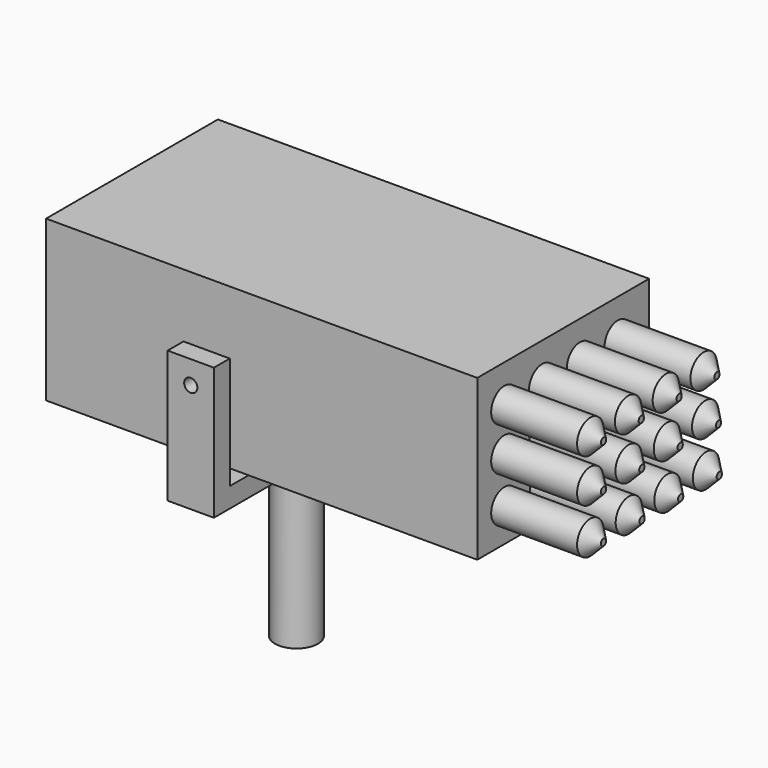
from build123d import *

# Parameters (mm, degrees)
F0_R     = 1.651
F1_DEPTH = 12.7
F0_W     = 3.556
F0_H     = 17.272
F2_DEPTH = 1.524
F0_H_2   = 1.524
F3_DEPTH = 10.16
F4_R     = 0.508
F5_DEPTH = 26.5684
F6_W     = 33.1509327516
F6_H     = 12.3088879045
F7_DEPTH = 8.255
F8_R     = 1.27
F9_DEPTH = 7.62
F10_SIZE = 1.016


with BuildPart() as f1:
    # F0 (on Top) → F1 (new body)
    with BuildSketch(Plane.XY):
        Circle(F0_R)
    extrude(amount=-F1_DEPTH)

    # F0 (on Top) → F2 (join)
    with BuildSketch(Plane.XY):
        Rectangle(F0_W, F0_H)
        Circle(F0_R, mode=Mode.SUBTRACT)
        Circle(F0_R)
    extrude(amount=F2_DEPTH)

    # F0 (on Top) → F3 (join)
    with BuildSketch(Plane.XY):
        with Locations((0, 9.398)):
            Rectangle(F0_W, F0_H_2)
        with Locations((0, -9.398)):
            Rectangle(F0_W, F0_H_2)
    extrude(amount=F3_DEPTH)

    # F4 (on face) → F5 (cut, symmetric)
    with BuildSketch(Plane.XZ.offset(10.16)):
        with Locations((0, 8.3864002662)):
            Circle(F4_R)
    extrude(amount=F5_DEPTH, both=True, mode=Mode.SUBTRACT)


with BuildPart() as f7:
    # F6 (on Front) → F7 (new body, symmetric)
    with BuildSketch(Plane.XZ):
        with Locations((3.9276746102, 8.6298874812)):
            Rectangle(F6_W, F6_H)
    extrude(amount=F7_DEPTH, both=True)

    # F8 (on face) → F9 (join)
    with BuildSketch(Plane.YZ.offset(20.503140986)):
        with Locations((-5.6507484865, 11.9198291255)):
            Circle(F8_R)
        with Locations((-2.0185484865, 11.9198291255)):
            Circle(F8_R)
        with Locations((1.6136515135, 11.9198291255)):
            Circle(F8_R)
        with Locations((5.2458515135, 11.9198291255)):
            Circle(F8_R)
        with Locations((5.3982515135, 8.5818376392)):
            Circle(F8_R)
        with Locations((5.4744515135, 5.0755804405)):
            Circle(F8_R)
        with Locations((1.7660515135, 5.0755804405)):
            Circle(F8_R)
        with Locations((1.7152515135, 8.5818376392)):
            Circle(F8_R)
        with Locations((-1.9677484865, 8.5818376392)):
            Circle(F8_R)
        with Locations((-1.9423484865, 5.0755804405)):
            Circle(F8_R)
        with Locations((-5.6507484865, 8.5818376392)):
            Circle(F8_R)
        with Locations((-5.6507484865, 5.0755804405)):
            Circle(F8_R)
    extrude(amount=F9_DEPTH)

    # F10
    f10_edges = [f7.edges().sort_by_distance(p)[0] for p in [
        (28.123141, -6.920748, 11.919829),
        (28.123141, -3.288548, 11.919829),
        (28.123141, 0.343652, 11.919829),
        (28.123141, 3.975852, 11.919829),
        (28.123141, 4.128252, 8.581838),
        (28.123141, 0.445252, 8.581838),
        (28.123141, -3.237748, 8.581838),
        (28.123141, -6.920748, 8.581838),
        (28.123141, -6.920748, 5.07558),
        (28.123141, -3.212348, 5.07558),
        (28.123141, 0.496052, 5.07558),
        (28.123141, 4.204452, 5.07558),
    ]]
    chamfer(f10_edges, length=F10_SIZE)


solid = Compound([f1.part, f7.part])
